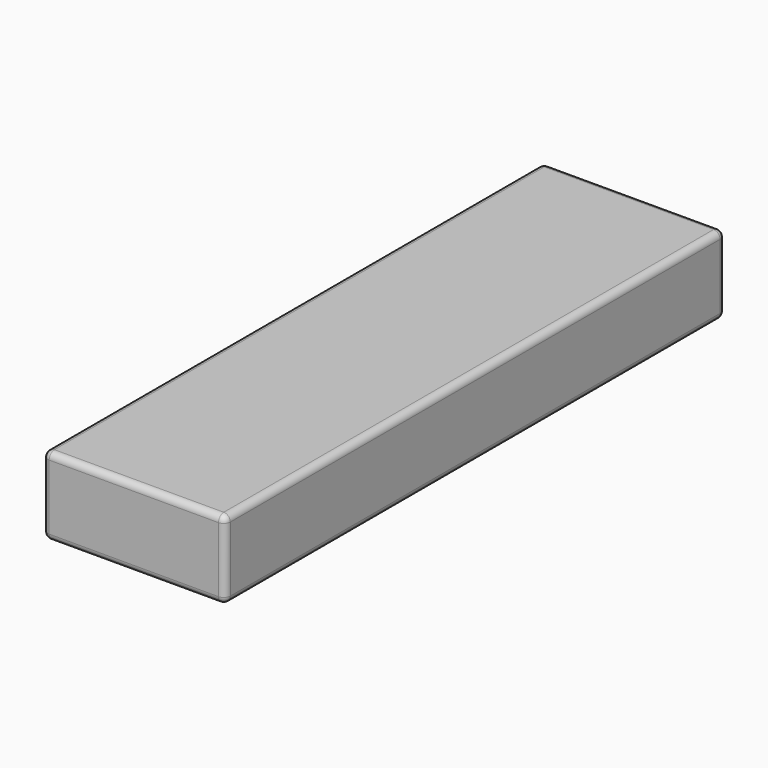
from build123d import *

# Parameters (mm, degrees)
F0_W     = 304.8
F0_H     = 38.1
F1_DEPTH = 88.9
F2_R     = 3.175


with BuildPart() as f1:
    # F0 (on Right) → F1 (new body)
    with BuildSketch(Plane.YZ):
        with Locations((152.4, 19.05)):
            Rectangle(F0_W, F0_H)
    extrude(amount=-F1_DEPTH)

    # F2
    f2_edges = [f1.edges().sort_by_distance(p)[0] for p in [
        (-88.9, 152.4, 38.1),
        (-44.45, 0, 38.1),
        (0, 152.4, 38.1),
        (-44.45, 304.8, 38.1),
        (-88.9, 0, 19.05),
        (0, 0, 19.05),
        (0, 152.4, 0),
        (-44.45, 0, 0),
        (-44.45, 304.8, 0),
        (0, 304.8, 19.05),
        (-88.9, 304.8, 19.05),
        (-88.9, 152.4, 0),
    ]]
    fillet(f2_edges, radius=F2_R)


solid = f1.part
